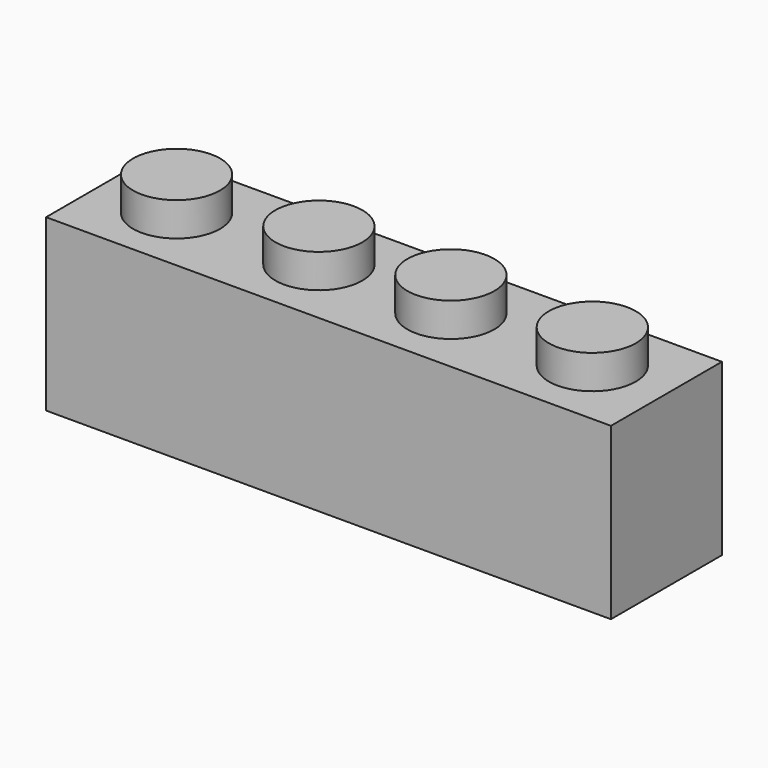
from build123d import *

# Parameters (mm, degrees)
F0_W      = 31.8516
F0_H      = 7.8232
F1_DEPTH  = 9.6012
F2_R      = 2.4511
F3_DEPTH  = 1.905
F4_R      = 2.4511
F5_DEPTH  = 1.905
F6_R      = 2.4511
F7_DEPTH  = 1.905
F8_W      = 28.702
F8_H      = 4.572
F9_DEPTH  = 7.62
F10_R     = 1.5113
F11_DEPTH = 7.62


with BuildPart() as f1:
    # F0 (on Top) → F1 (new body)
    with BuildSketch(Plane.XY):
        Rectangle(F0_W, F0_H)
    extrude(amount=F1_DEPTH)

    # F2 (on face) → F3 (join)
    with BuildSketch(Plane.XY.offset(9.6012)):
        with Locations((-11.6967, 0)):
            Circle(F2_R)
    extrude(amount=F3_DEPTH)

    # F4 (on face) → F5 (join)
    with BuildSketch(Plane.XY.offset(9.6012)):
        with Locations((11.6967, 0.0635)):
            Circle(F4_R)
    extrude(amount=F5_DEPTH)

    # F6 (on face) → F7 (join)
    with BuildSketch(Plane.XY.offset(9.6012)):
        with Locations((-3.721353, 0.0635)):
            Circle(F6_R)
        with Locations((3.7211, 0.0635)):
            Circle(F6_R)
    extrude(amount=F7_DEPTH)

    # F8 (on face) → F9 (cut)
    with BuildSketch(Plane(origin=(0, 0, 0), x_dir=(1, 0, 0), z_dir=(0, 0, -1))):
        Rectangle(F8_W, F8_H)
    extrude(amount=-F9_DEPTH, mode=Mode.SUBTRACT)

    # F10 (on face) → F11 (join)
    with BuildSketch(Plane(origin=(0, 0, 7.62), x_dir=(1, 0, 0), z_dir=(0, 0, -1))):
        Circle(F10_R)
        with Locations((-7.9248, 0)):
            Circle(F10_R)
        with Locations((7.9248, 0)):
            Circle(F10_R)
    extrude(amount=F11_DEPTH)


solid = f1.part
